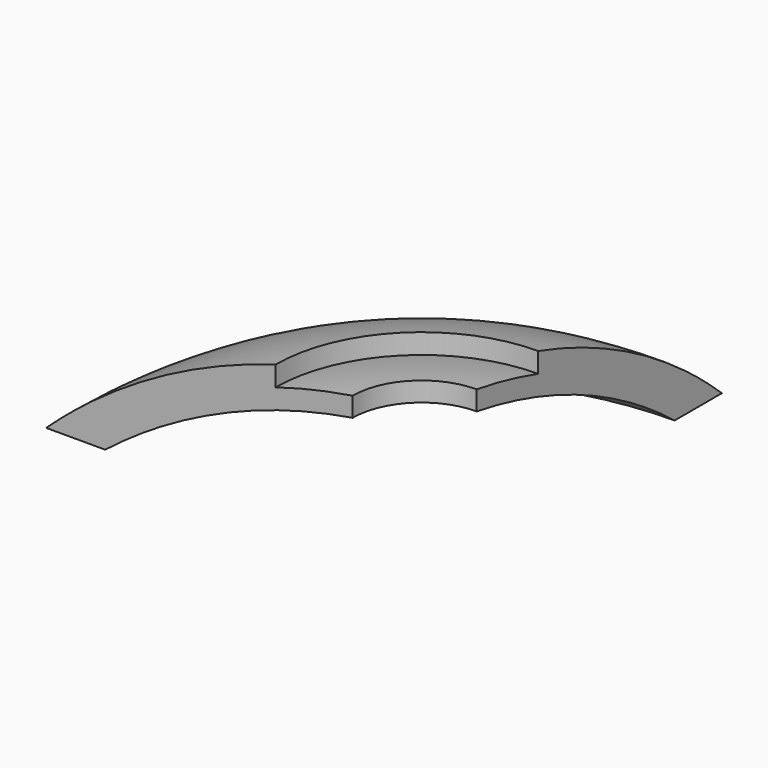
from build123d import *

# Parameters (mm, degrees)
F1_ANGLE = 90


with BuildPart() as f1:
    # F0 (on Front) → F1 (revolve)
    with BuildSketch(Plane.XZ):
        with BuildLine():
            ThreePointArc((-109.985226, 139.7), (-100.982962, 146.33961), (-91.581002, 152.4))
            Line((-91.581002, 152.4), (-103.370511, 152.4))
            Line((-103.370511, 152.4), (-114.3, 152.4))
            ThreePointArc((-114.3, 152.4), (-122.072817, 146.247999), (-129.515096, 139.7))
            Line((-129.515096, 139.7), (-119.979717, 139.7))
            Line((-119.979717, 139.7), (-109.985226, 139.7))
        make_face()
        with BuildLine():
            Line((-114.3, 152.4), (-103.370511, 152.4))
            ThreePointArc((-103.370511, 152.4), (-79.42104, 166.143074), (-53.685891, 176.150639))
            Line((-53.685891, 176.150639), (-53.685891, 182.77876))
            ThreePointArc((-53.685891, 182.77876), (-85.355329, 170.307715), (-114.3, 152.4))
        make_face()
        with BuildLine():
            Line((-103.370511, 152.4), (-91.581002, 152.4))
            ThreePointArc((-91.581002, 152.4), (-61.039594, 166.994036), (-28.285891, 175.535604))
            Line((-28.285891, 175.535604), (-28.285891, 181.964642))
            ThreePointArc((-28.285891, 181.964642), (-41.088854, 179.507461), (-53.685891, 176.150639))
            ThreePointArc((-53.685891, 176.150639), (-79.42104, 166.143074), (-103.370511, 152.4))
        make_face()
    revolve(axis=Axis((-5.526184, 0, 171.786702), (0, 0, -1)), revolution_arc=F1_ANGLE)


solid = f1.part
